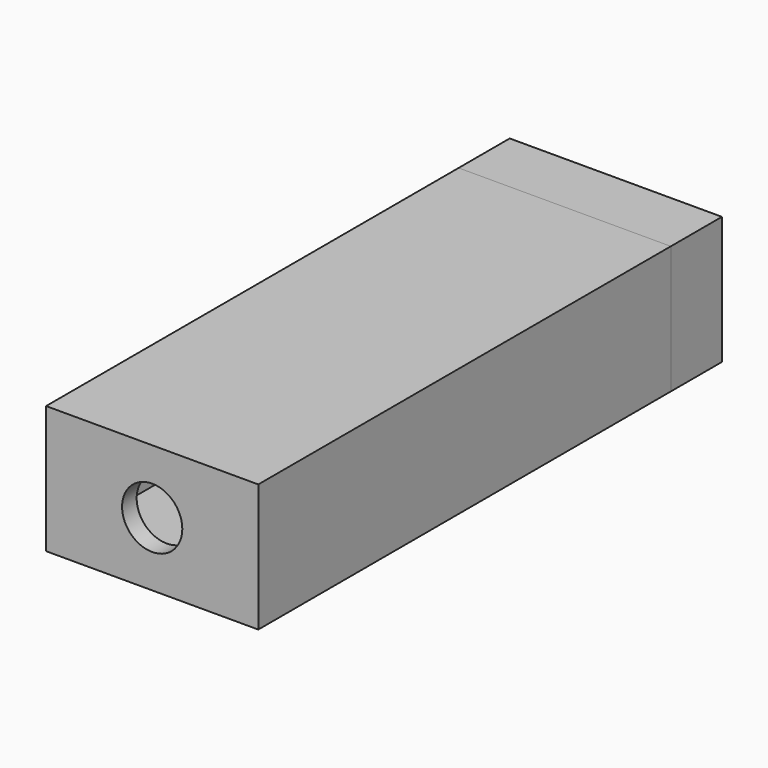
from build123d import *

# Parameters (mm, degrees)
PAD003_DEPTH      = 7
PAD003_DEPTH_BACK = 7
SKETCH004_W       = 7
SKETCH004_H       = 1
PAD004_DEPTH      = 23.250027
SKETCH005_W       = 12.35
SKETCH005_H       = 4.75
POCKET_DEPTH      = 7.001
SKETCH007_W       = 23.25
SKETCH007_H       = 14
PAD005_DEPTH      = 61.5
THICKNESS_T       = -2
SKETCH008_W       = 23.25
SKETCH008_H       = 14
SKETCH008_W_2     = 21.05
SKETCH008_H_2     = 11.8
POCKET001_DEPTH   = 5
SKETCH009_R       = 3.3
POCKET002_DEPTH   = 61.501


with BuildPart() as usb:
    # Sketch003 → Pad003 (new body, two sides)
    with BuildSketch(Plane.XY) as pad003_sk:
        Polygon((11.625027, 0), (-11.625, 0), (-11.625, -7), (-10.625, -7), (-10.625, -2), (10.625, -2), (10.625027, -7), (11.625027, -7), align=None)
    extrude(amount=PAD003_DEPTH)
    extrude(pad003_sk.sketch, amount=-PAD003_DEPTH_BACK)

    # Sketch004 (on Face4 of Pad003) → Pad004 (join)
    with BuildSketch(Plane.YZ.offset(11.625027)):
        with Locations((-3.5, 6.5)):
            Rectangle(SKETCH004_W, SKETCH004_H)
        with Locations((-3.5, -6.5)):
            Rectangle(SKETCH004_W, SKETCH004_H)
    extrude(amount=-PAD004_DEPTH)

    # Sketch005 (on Face9 of Pad004) → Pocket (cut, through all)
    with BuildSketch(Plane(origin=(0, 0, 0), x_dir=(-1, 0, 0), z_dir=(0, 1, 0))):
        Rectangle(SKETCH005_W, SKETCH005_H)
    extrude(amount=-POCKET_DEPTH, mode=Mode.SUBTRACT)


with BuildPart() as body004:
    # Sketch007 → Pad005 (new body)
    with BuildSketch(Plane.XZ.offset(2)):
        Rectangle(SKETCH007_W, SKETCH007_H)
    extrude(amount=PAD005_DEPTH)

    # Thickness
    thickness_openings = [body004.faces().sort_by_distance(p)[0] for p in [
        (0, -2, 0),
    ]]
    offset(amount=THICKNESS_T, openings=thickness_openings, kind=Kind.INTERSECTION)

    # Sketch008 (on Face6 of Thickness) → Pocket001 (cut)
    with BuildSketch(Plane(origin=(0, -2, 0), x_dir=(-1, 0, 0), z_dir=(0, 1, 0))):
        Rectangle(SKETCH008_W, SKETCH008_H)
        Rectangle(SKETCH008_W_2, SKETCH008_H_2, mode=Mode.SUBTRACT)
    extrude(amount=-POCKET001_DEPTH, mode=Mode.SUBTRACT)

    # Sketch009 (on Face4 of Pocket001) → Pocket002 (cut, through all)
    with BuildSketch(Plane.XZ.offset(63.5)):
        Circle(SKETCH009_R)
    extrude(amount=-POCKET002_DEPTH, mode=Mode.SUBTRACT)


solid = Compound([usb.part, body004.part])
